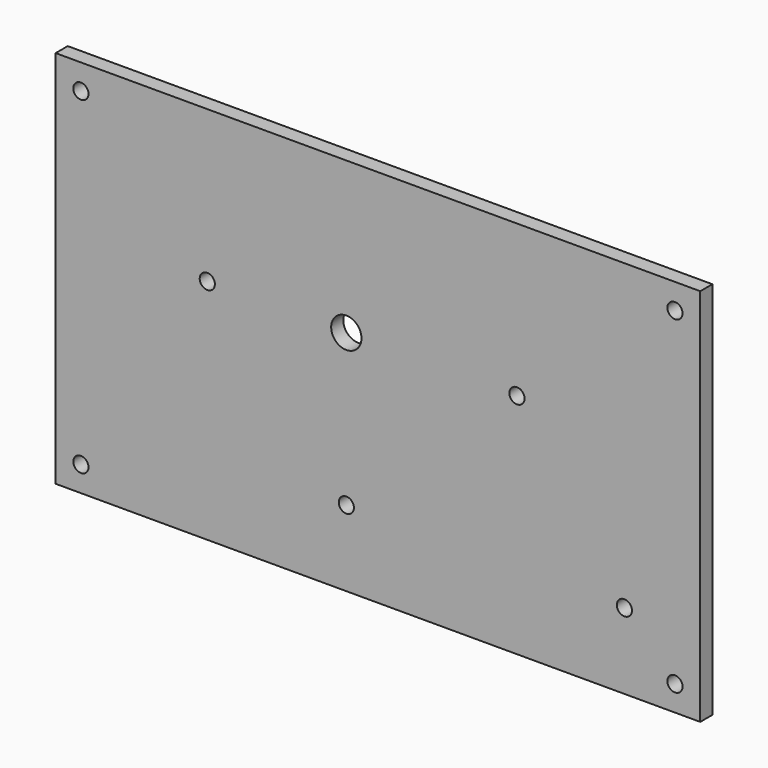
from build123d import *

# Parameters (mm, degrees)
F0_W     = 255
F0_H     = 150
F0_R     = 3
F0_R_2   = 6
F1_DEPTH = 6


with BuildPart() as f1:
    # F0 (on Front) → F1 (new body)
    with BuildSketch(Plane.XZ):
        with Locations((67.5, -15)):
            Rectangle(F0_W, F0_H)
        with Locations((-50, -80)):
            Circle(F0_R, mode=Mode.SUBTRACT)
        with Locations((55, -60)):
            Circle(F0_R, mode=Mode.SUBTRACT)
        with Locations((185, -80)):
            Circle(F0_R, mode=Mode.SUBTRACT)
        with Locations((165, -60)):
            Circle(F0_R, mode=Mode.SUBTRACT)
        Circle(F0_R, mode=Mode.SUBTRACT)
        with Locations((55, 0)):
            Circle(F0_R_2, mode=Mode.SUBTRACT)
        with Locations((-50, 50)):
            Circle(F0_R, mode=Mode.SUBTRACT)
        with Locations((122.5, 0)):
            Circle(F0_R, mode=Mode.SUBTRACT)
        with Locations((185, 50)):
            Circle(F0_R, mode=Mode.SUBTRACT)
    extrude(amount=F1_DEPTH)


solid = f1.part
